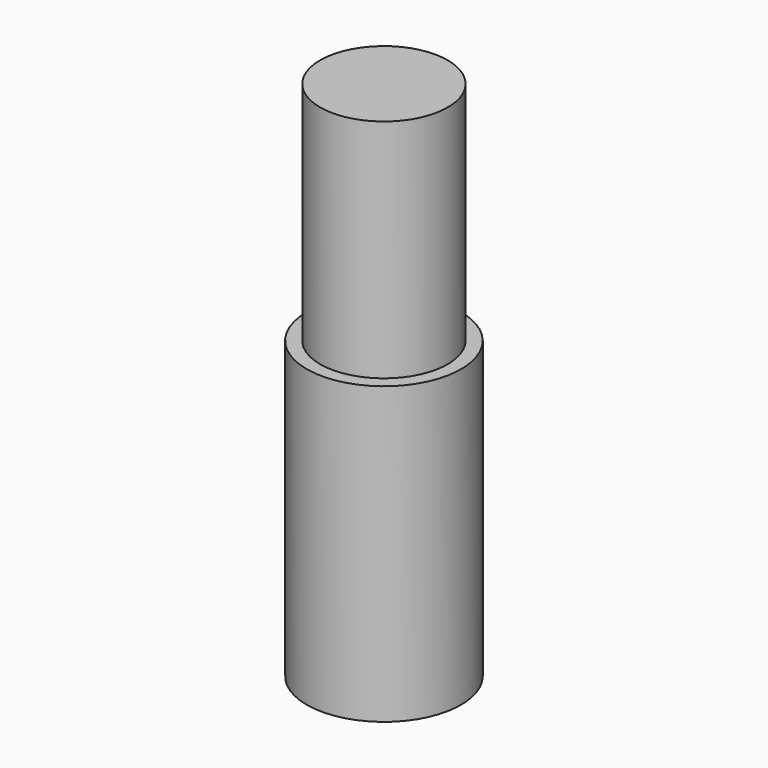
from build123d import *

# Parameters (mm, degrees)
F0_W     = 28.8560651243
F0_H     = 110.4691773653
F2_T     = -5
F3_DEPTH = 190


with BuildPart() as f1:
    # F0 (on Front) → F1 (revolve)
    with BuildSketch(Plane.XZ):
        with Locations((-14.4280325621, 0)):
            Rectangle(F0_W, F0_H)
    revolve(axis=Axis((0, 0, 0), (0, 0, -1)))

    # F2
    f2_openings = [f1.faces().sort_by_distance(p)[0] for p in [
        (0, 0, 55.234589),
    ]]
    offset(amount=F2_T, openings=f2_openings)


with BuildPart() as f3:
    # F3 (new): a face of the model
    f3_faces = [f1.part.faces().sort_by_distance(p)[0] for p in [
        (0, 0, -50.2345886827),
    ]]
    extrude(f3_faces, amount=F3_DEPTH)


solid = Compound([f1.part, f3.part])
